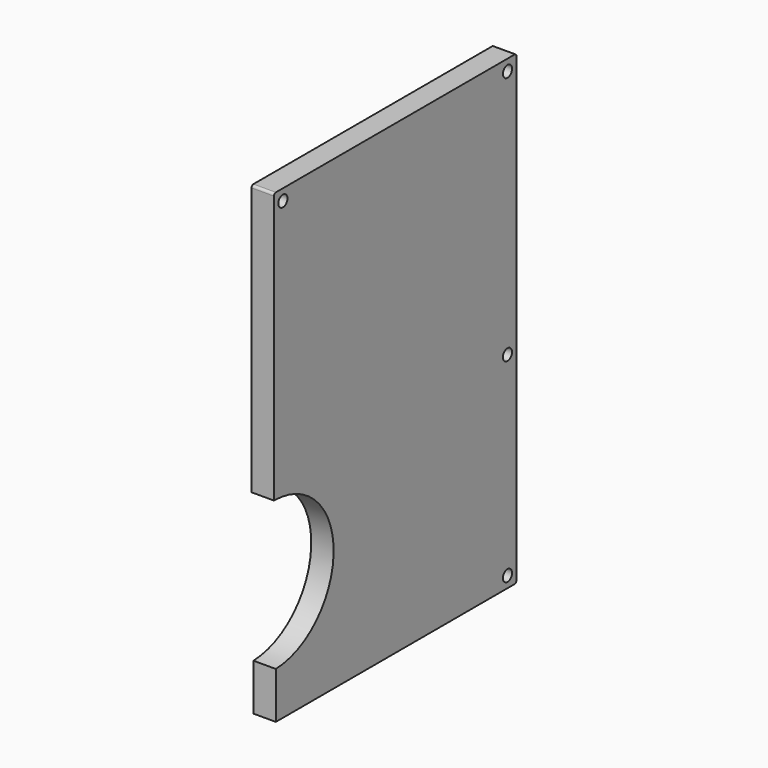
from build123d import *

# Parameters (mm, degrees)
F0_R     = 3.05
F1_DEPTH = 12


with BuildPart() as f1:
    # F0 (on Right) → F1 (new body)
    with BuildSketch(Plane.YZ):
        with BuildLine():
            Line((-161.27, 0), (-1.27, 0))
            ThreePointArc((-1.27, 0), (-0.371974, 0.371974), (0, 1.27))
            Line((0, 1.27), (0, 248.73))
            ThreePointArc((0, 248.73), (-0.371974, 249.628026), (-1.27, 250))
            Line((-1.27, 250), (-161.27, 250))
            ThreePointArc((-161.27, 250), (-162.168026, 249.628026), (-162.54, 248.73))
            Line((-162.54, 248.73), (-162.54, 105))
            ThreePointArc((-162.54, 105), (-122.53496, 65.624999), (-161.27, 25))
            Line((-161.27, 25), (-161.27, 0))
        make_face()
        with Locations((-6, 6)):
            Circle(F0_R, mode=Mode.SUBTRACT)
        with Locations((-6, 110.267787)):
            Circle(F0_R, mode=Mode.SUBTRACT)
        with Locations((-156.54, 244)):
            Circle(F0_R, mode=Mode.SUBTRACT)
        with Locations((-6, 244)):
            Circle(F0_R, mode=Mode.SUBTRACT)
    extrude(amount=F1_DEPTH)


solid = f1.part
